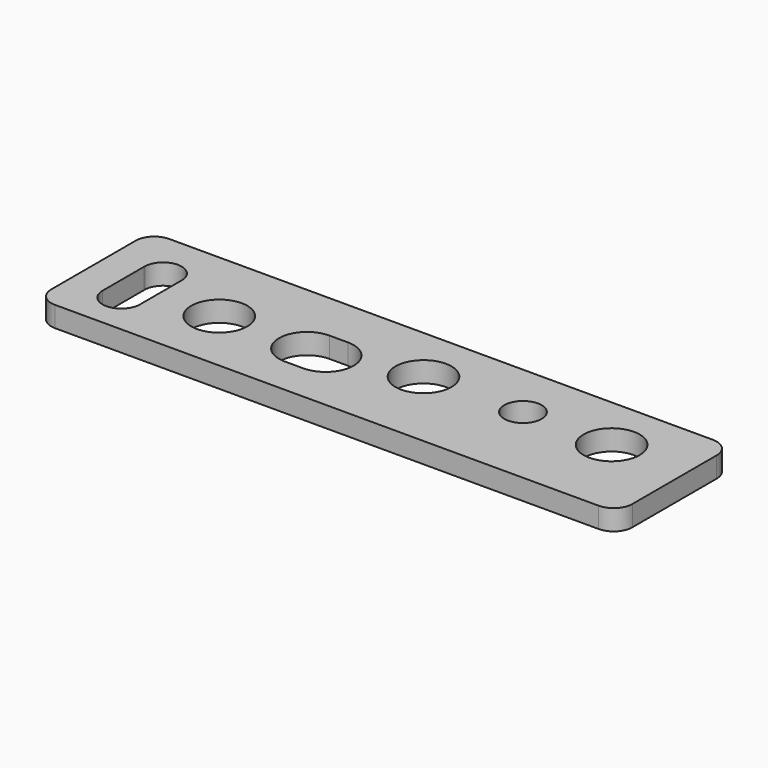
from build123d import *

# Parameters (mm, degrees)
F0_W     = 31.13
F0_H     = 7.65
F0_R     = 1.5
F0_R_2   = 1
F1_DEPTH = 0.55
F2_R     = 1


with BuildPart() as f1:
    # F0 (on Top) → F1 (new body, symmetric)
    with BuildSketch(Plane.XY):
        Rectangle(F0_W, F0_H)
        with BuildLine():
            ThreePointArc((-11.815387, -1.602815), (-12.82903, -2.574902), (-13.815, -1.574757))
            Line((-13.815, -1.574757), (-13.81433, 1.188396))
            ThreePointArc((-13.81433, 1.188396), (-13.815, 1.225243), (-13.814312, 1.262089))
            ThreePointArc((-13.814312, 1.262089), (-12.796384, 2.224827), (-11.815, 1.224863))
            Line((-11.815, 1.224863), (-11.815379, -1.547459))
            ThreePointArc((-11.815379, -1.547459), (-11.815, -1.575137), (-11.815387, -1.602815))
        make_face(mode=Mode.SUBTRACT)
        with Locations((-8.565, -0.325)):
            Circle(F0_R, mode=Mode.SUBTRACT)
        with BuildLine():
            ThreePointArc((-3.865686, -1.825), (-5.365, -0.324657), (-3.865, 1.175))
            Line((-3.865, 1.175), (-2.865, 1.175))
            ThreePointArc((-2.865, 1.175), (-1.365, -0.325), (-2.865, -1.825))
            Line((-2.865, -1.825), (-3.865686, -1.825))
        make_face(mode=Mode.SUBTRACT)
        with Locations((1.535, 0.725)):
            Circle(F0_R, mode=Mode.SUBTRACT)
        with Locations((6.785, 0.825)):
            Circle(F0_R_2, mode=Mode.SUBTRACT)
        with Locations((11.535, 0.825)):
            Circle(F0_R, mode=Mode.SUBTRACT)
    extrude(amount=F1_DEPTH, both=True)

    # F2
    f2_edges = [f1.edges().sort_by_distance(p)[0] for p in [
        (-15.565, 3.825, 0),
        (15.565, 3.825, 0),
        (15.565, -3.825, 0),
        (-15.565, -3.825, 0),
    ]]
    fillet(f2_edges, radius=F2_R)


solid = f1.part
